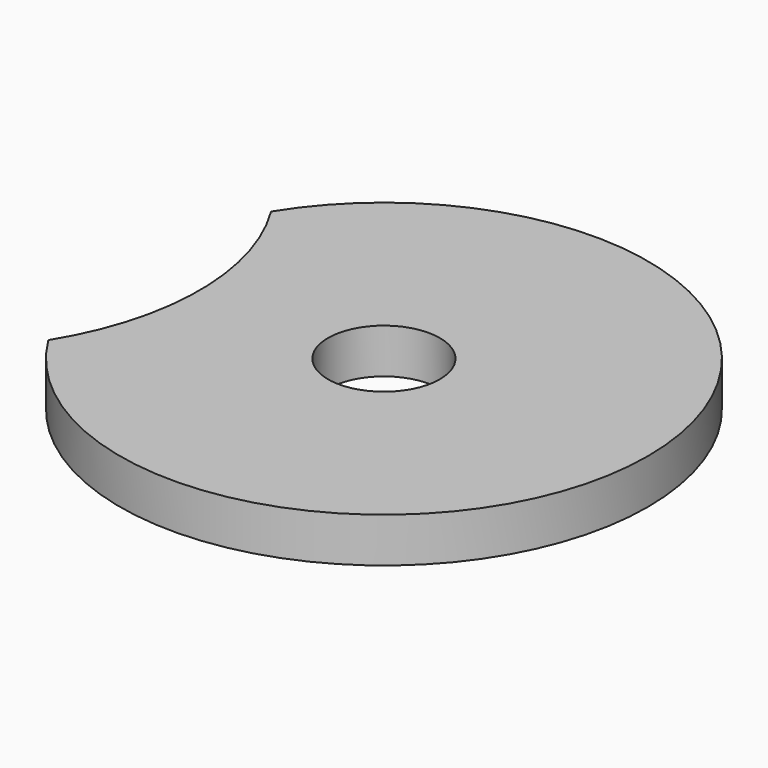
from build123d import *

# Parameters (mm, degrees)
F1_DEPTH = 7.62
F2_R     = 9.525
F3_DEPTH = 25.4


with BuildPart() as f1:
    # F0 (on Top) → F1 (new body)
    with BuildSketch(Plane.XY):
        with BuildLine():
            ThreePointArc((-38.195999, 23.712601), (-31.433998, 0), (-38.195999, -23.712601))
            ThreePointArc((-38.195999, -23.712601), (44.958, 0), (-38.195999, 23.712601))
        make_face()
    extrude(amount=F1_DEPTH)

    # F2 (on face) → F3 (cut)
    with BuildSketch(Plane(origin=(0, 0, 0), x_dir=(1, 0, 0), z_dir=(0, 0, -1))):
        Circle(F2_R)
    extrude(amount=-F3_DEPTH, mode=Mode.SUBTRACT)


solid = f1.part
